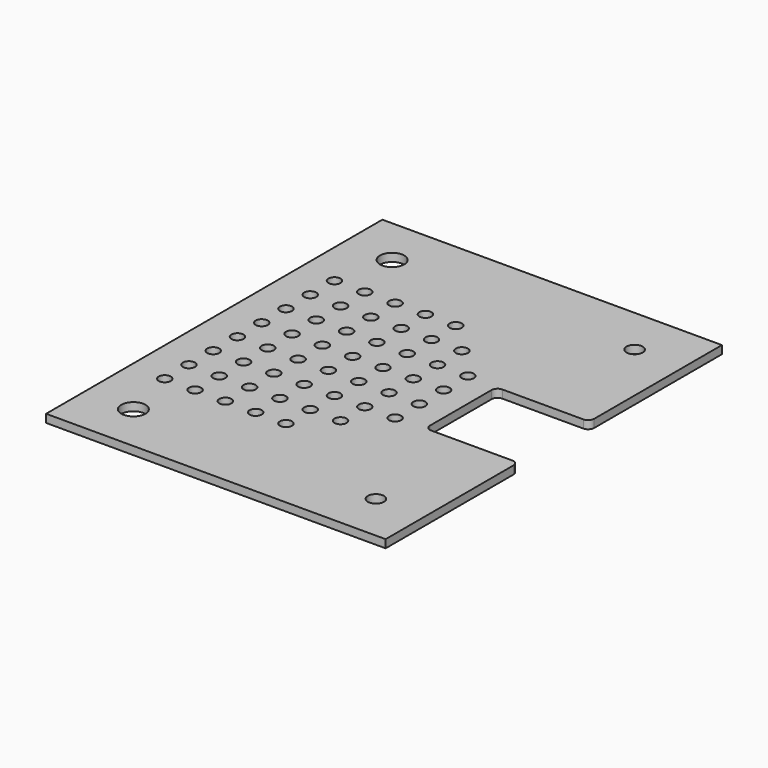
from build123d import *

# Parameters (mm, degrees)
F0_W     = 84
F0_H     = 104
F0_R     = 3
F0_R_2   = 2
F1_DEPTH = 2
F2_W     = 23
F2_H     = 22
F3_DEPTH = 2.001
F4_R     = 1.5
F5_R     = 1.5
F6_DEPTH = 2.001


with BuildPart() as f1:
    # F0 (on Top) → F1 (new body)
    with BuildSketch(Plane.XY):
        Rectangle(F0_W, F0_H)
        with Locations((-30, -40)):
            Circle(F0_R, mode=Mode.SUBTRACT)
        with Locations((30, -40)):
            Circle(F0_R_2, mode=Mode.SUBTRACT)
        with Locations((-30, 40)):
            Circle(F0_R, mode=Mode.SUBTRACT)
        with Locations((30, 40)):
            Circle(F0_R_2, mode=Mode.SUBTRACT)
    extrude(amount=F1_DEPTH)

    # F2 (on face) → F3 (cut, through all)
    with BuildSketch(Plane(origin=(0, 0, 0), x_dir=(1, 0, 0), z_dir=(0, 0, -1))):
        with Locations((30.5, 0)):
            Rectangle(F2_W, F2_H)
    extrude(amount=-F3_DEPTH, mode=Mode.SUBTRACT)

    # F4
    f4_edges = [f1.edges().sort_by_distance(p)[0] for p in [
        (19, 11, 1),
        (42, 11, 1),
        (19, -11, 1),
        (42, -11, 1),
    ]]
    fillet(f4_edges, radius=F4_R)

    # F5 (on face) → F6 (cut, through all)
    with BuildSketch(Plane.XY.offset(2)):
        with Locations((-33.25, -26.25)):
            Circle(F5_R)
        with Locations((-33.25, -18.75)):
            Circle(F5_R)
        with Locations((-33.25, -11.25)):
            Circle(F5_R)
        with Locations((-33.25, -3.75)):
            Circle(F5_R)
        with Locations((-25.75, -26.25)):
            Circle(F5_R)
        with Locations((-25.75, -18.75)):
            Circle(F5_R)
        with Locations((-25.75, -11.25)):
            Circle(F5_R)
        with Locations((-25.75, -3.75)):
            Circle(F5_R)
        with Locations((-18.25, -26.25)):
            Circle(F5_R)
        with Locations((-18.25, -18.75)):
            Circle(F5_R)
        with Locations((-18.25, -11.25)):
            Circle(F5_R)
        with Locations((-18.25, -3.75)):
            Circle(F5_R)
        with Locations((-10.75, -26.25)):
            Circle(F5_R)
        with Locations((-10.75, -18.75)):
            Circle(F5_R)
        with Locations((-10.75, -11.25)):
            Circle(F5_R)
        with Locations((-10.75, -3.75)):
            Circle(F5_R)
        with Locations((-3.25, -26.25)):
            Circle(F5_R)
        with Locations((-3.25, -18.75)):
            Circle(F5_R)
        with Locations((-3.25, -11.25)):
            Circle(F5_R)
        with Locations((-3.25, -3.75)):
            Circle(F5_R)
        with Locations((4.25, -18.75)):
            Circle(F5_R)
        with Locations((4.25, -11.25)):
            Circle(F5_R)
        with Locations((4.25, -3.75)):
            Circle(F5_R)
        with Locations((11.75, -11.25)):
            Circle(F5_R)
        with Locations((11.75, -3.75)):
            Circle(F5_R)
        with Locations((-33.25, 26.25)):
            Circle(F5_R)
        with Locations((-25.75, 26.25)):
            Circle(F5_R)
        with Locations((-25.75, 3.75)):
            Circle(F5_R)
        with Locations((-3.25, 3.75)):
            Circle(F5_R)
        with Locations((-10.75, 26.25)):
            Circle(F5_R)
        with Locations((-3.25, 26.25)):
            Circle(F5_R)
        with Locations((-33.25, 3.75)):
            Circle(F5_R)
        with Locations((-10.75, 3.75)):
            Circle(F5_R)
        with Locations((-33.25, 18.75)):
            Circle(F5_R)
        with Locations((-18.25, 3.75)):
            Circle(F5_R)
        with Locations((-18.25, 18.75)):
            Circle(F5_R)
        with Locations((-25.75, 11.25)):
            Circle(F5_R)
        with Locations((11.75, 11.25)):
            Circle(F5_R)
        with Locations((-25.75, 18.75)):
            Circle(F5_R)
        with Locations((-10.75, 18.75)):
            Circle(F5_R)
        with Locations((-33.25, 11.25)):
            Circle(F5_R)
        with Locations((-3.25, 18.75)):
            Circle(F5_R)
        with Locations((4.25, 18.75)):
            Circle(F5_R)
        with Locations((-10.75, 11.25)):
            Circle(F5_R)
        with Locations((11.75, 3.75)):
            Circle(F5_R)
        with Locations((-18.25, 26.25)):
            Circle(F5_R)
        with Locations((4.25, 3.75)):
            Circle(F5_R)
        with Locations((-3.25, 11.25)):
            Circle(F5_R)
        with Locations((4.25, 11.25)):
            Circle(F5_R)
        with Locations((-18.25, 11.25)):
            Circle(F5_R)
    extrude(amount=-F6_DEPTH, mode=Mode.SUBTRACT)


solid = f1.part
